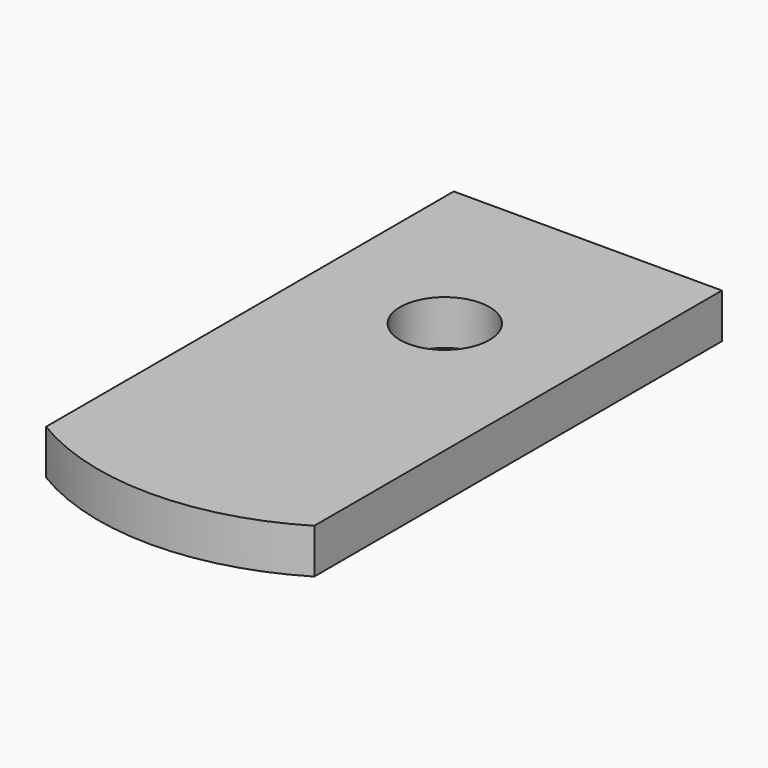
from build123d import *

# Parameters (mm, degrees)
F0_R     = 5
F1_DEPTH = 5


with BuildPart() as f1:
    # F0 (on Top) → F1 (new body)
    with BuildSketch(Plane.XY):
        with BuildLine():
            Line((15, -28.5), (15, 28.5))
            Line((15, 28.5), (-15, 28.5))
            Line((-15, 28.5), (-15, -28.5))
            ThreePointArc((-15, -28.5), (0, -32.680653), (15, -28.5))
        make_face()
        with Locations((0, 8.5)):
            Circle(F0_R, mode=Mode.SUBTRACT)
    extrude(amount=F1_DEPTH)


solid = f1.part
